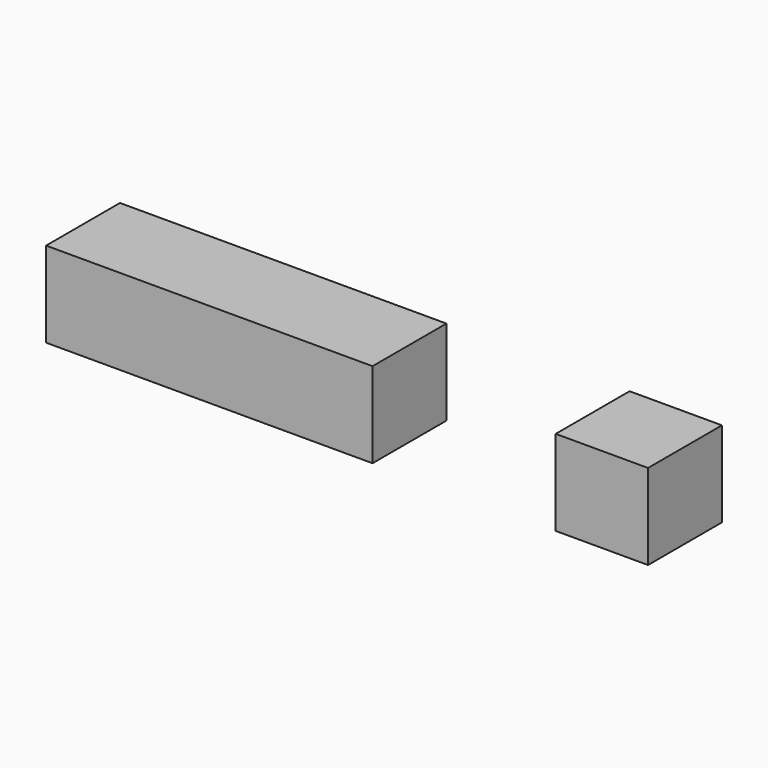
from build123d import *

# Parameters (mm, degrees)
F1_START = -225.425
F1_DEPTH = 384.175


with BuildPart() as f1:
    # F0 (on Front) → F1 (new body)
    with BuildSketch(Plane.XZ.offset(F1_START)):
        Polygon((-1146.1790530003, 2133.6), (-2504.3353067553, 2133.6), (-2504.3353067553, 1778), (-1146.1790530003, 1778), (-1146.1790530003, 1955.8), align=None)
    extrude(amount=-F1_DEPTH)


with BuildPart() as f1b:
    # F0 (on Front) → F1, piece 2 (new body)
    with BuildSketch(Plane.XZ.offset(F1_START)):
        Polygon((0, 1778), (0, 2133.584469223), (-384.1790530003, 2133.584469223), (-384.1790530003, 1955.8), (-384.1790530003, 1778), align=None)
    extrude(amount=-F1_DEPTH)


solid = Compound([f1.part, f1b.part])
